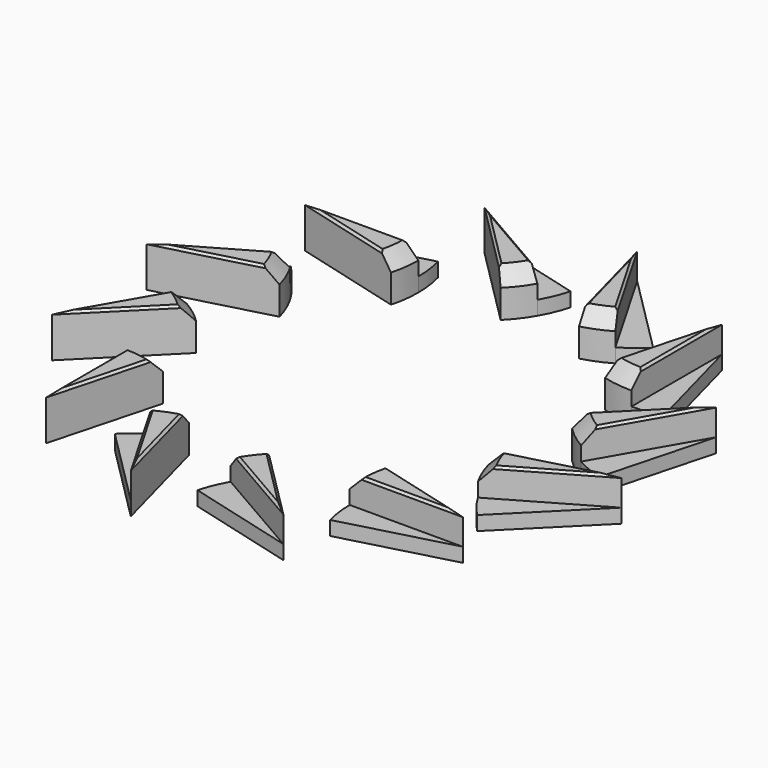
from build123d import *

# Parameters (mm, degrees)
F1_DEPTH = 4.7625
F2_DEPTH = 1.5875
F3_SIZE  = 1.5875
F4_SIZE  = 0.254
F6_COUNT = 12
F6_ANGLE = 330


with BuildPart() as f1:
    # F0 (on Top) → F1 (new body)
    with BuildSketch(Plane.XY):
        with BuildLine():
            Line((-42.4287235433, 43.3454035876), (-42.4287235433, 56.0454035876))
            Line((-42.4287235433, 56.0454035876), (-45.7157254161, 43.7781455937))
            ThreePointArc((-45.7157254161, 43.7781455937), (-44.0864061844, 43.4540538481), (-42.4287235433, 43.3454035876))
        make_face()
    extrude(amount=F1_DEPTH)

    # F0 (on Top) → F2 (join)
    with BuildSketch(Plane.XY):
        with BuildLine():
            Line((-42.4287235433, 43.3454035876), (-42.4287235433, 56.0454035876))
            Line((-42.4287235433, 56.0454035876), (-45.7157254161, 43.7781455937))
            ThreePointArc((-45.7157254161, 43.7781455937), (-44.0864061844, 43.4540538481), (-42.4287235433, 43.3454035876))
        make_face()
        with BuildLine():
            Line((-39.1417216704, 43.7781455937), (-42.4287235433, 56.0454035876))
            Line((-42.4287235433, 56.0454035876), (-42.4287235433, 43.3454035876))
            ThreePointArc((-42.4287235433, 43.3454035876), (-40.7710409021, 43.4540538481), (-39.1417216704, 43.7781455937))
        make_face()
    extrude(amount=F2_DEPTH)

    # F3
    f3_edges = [f1.edges().sort_by_distance(p)[0] for p in [
        (-44.086406, 43.454054, 4.7625),
    ]]
    chamfer(f3_edges, length=F3_SIZE)

    # F4
    f4_edges = [f1.edges().sort_by_distance(p)[0] for p in [
        (-42.428724, 50.489154, 4.7625),
        (-43.866787, 50.678478, 4.7625),
    ]]
    chamfer(f4_edges, length=F4_SIZE)


with BuildPart() as f6_1:
    # F6: instance of F1
    add(f1.part.rotate(Axis((-61.225630343, 32.1544781327, 0), (0, 0, 1)), 1 * F6_ANGLE / (F6_COUNT - 1)))


with BuildPart() as f6_2:
    # F6: instance of F1
    add(f1.part.rotate(Axis((-61.225630343, 32.1544781327, 0), (0, 0, 1)), 2 * F6_ANGLE / (F6_COUNT - 1)))


with BuildPart() as f6_3:
    # F6: instance of F1
    add(f1.part.rotate(Axis((-61.225630343, 32.1544781327, 0), (0, 0, 1)), 3 * F6_ANGLE / (F6_COUNT - 1)))


with BuildPart() as f6_4:
    # F6: instance of F1
    add(f1.part.rotate(Axis((-61.225630343, 32.1544781327, 0), (0, 0, 1)), 4 * F6_ANGLE / (F6_COUNT - 1)))


with BuildPart() as f6_5:
    # F6: instance of F1
    add(f1.part.rotate(Axis((-61.225630343, 32.1544781327, 0), (0, 0, 1)), 5 * F6_ANGLE / (F6_COUNT - 1)))


with BuildPart() as f6_6:
    # F6: instance of F1
    add(f1.part.rotate(Axis((-61.225630343, 32.1544781327, 0), (0, 0, 1)), 6 * F6_ANGLE / (F6_COUNT - 1)))


with BuildPart() as f6_7:
    # F6: instance of F1
    add(f1.part.rotate(Axis((-61.225630343, 32.1544781327, 0), (0, 0, 1)), 7 * F6_ANGLE / (F6_COUNT - 1)))


with BuildPart() as f6_8:
    # F6: instance of F1
    add(f1.part.rotate(Axis((-61.225630343, 32.1544781327, 0), (0, 0, 1)), 8 * F6_ANGLE / (F6_COUNT - 1)))


with BuildPart() as f6_9:
    # F6: instance of F1
    add(f1.part.rotate(Axis((-61.225630343, 32.1544781327, 0), (0, 0, 1)), 9 * F6_ANGLE / (F6_COUNT - 1)))


with BuildPart() as f6_10:
    # F6: instance of F1
    add(f1.part.rotate(Axis((-61.225630343, 32.1544781327, 0), (0, 0, 1)), 10 * F6_ANGLE / (F6_COUNT - 1)))


with BuildPart() as f6_11:
    # F6: instance of F1
    add(f1.part.rotate(Axis((-61.225630343, 32.1544781327, 0), (0, 0, 1)), 11 * F6_ANGLE / (F6_COUNT - 1)))


solid = Compound([f1.part, f6_1.part, f6_2.part, f6_3.part, f6_4.part, f6_5.part, f6_6.part, f6_7.part, f6_8.part, f6_9.part, f6_10.part, f6_11.part])
